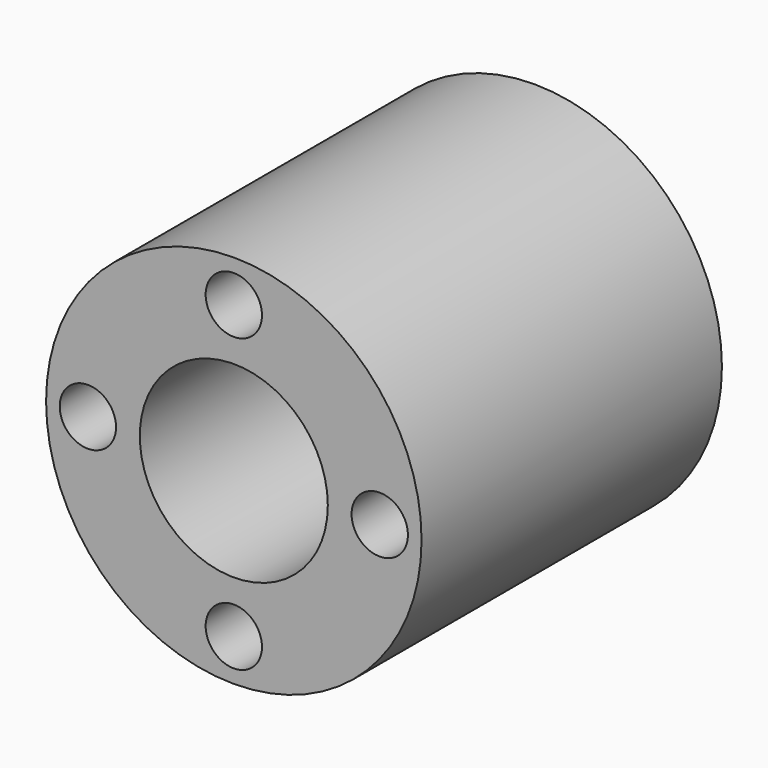
from build123d import *

# Parameters (mm, degrees)
F0_R     = 12.7
F0_R_2   = 1.905
F0_R_3   = 6.359671
F1_DEPTH = 25.4
F0_R_4   = 6.35
F0_R_5   = 4.0005
F2_DEPTH = 12.7


with BuildPart() as f1:
    # F0 (on Front) → F1 (new body)
    with BuildSketch(Plane.XZ):
        Circle(F0_R)
        with Locations((0, -9.872023)):
            Circle(F0_R_2, mode=Mode.SUBTRACT)
        with Locations((-9.872023, 0)):
            Circle(F0_R_2, mode=Mode.SUBTRACT)
        Circle(F0_R_3, mode=Mode.SUBTRACT)
        with Locations((9.872023, 0)):
            Circle(F0_R_2, mode=Mode.SUBTRACT)
        with Locations((0, 9.872023)):
            Circle(F0_R_2, mode=Mode.SUBTRACT)
    extrude(amount=F1_DEPTH)


with BuildPart() as f2:
    # F0 (on Front) → F2 (new body)
    with BuildSketch(Plane.XZ):
        Circle(F0_R_4)
        Circle(F0_R_5, mode=Mode.SUBTRACT)
    extrude(amount=F2_DEPTH)


solid = Compound([f1.part, f2.part])
